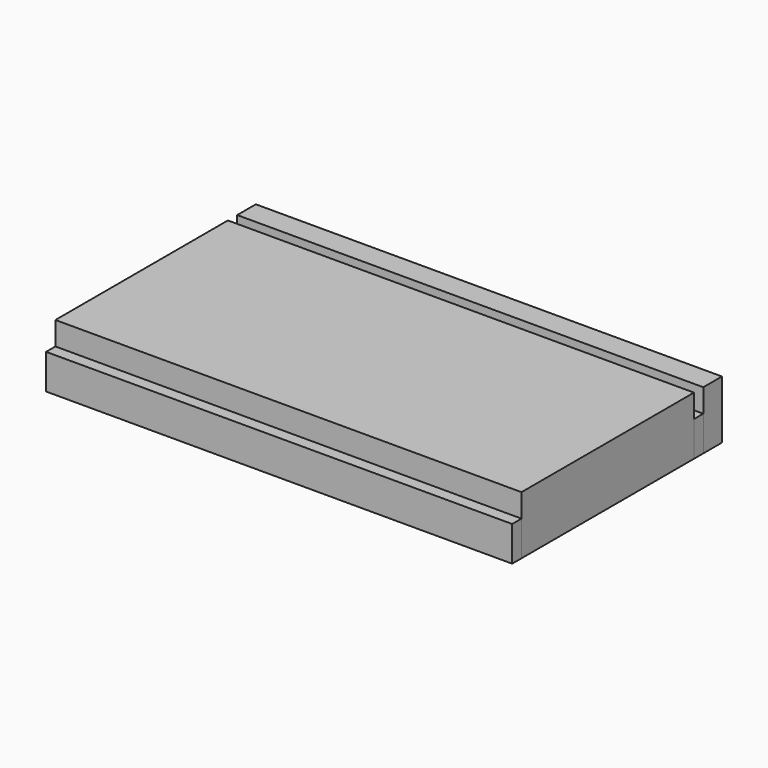
from build123d import *

# Parameters (mm, degrees)
F0_W     = 160
F0_H     = 8
F0_H_2   = 74
F1_DEPTH = 20
F0_H_3   = 4
F2_DEPTH = 12


with BuildPart() as f1:
    # F0 (on Top) → F1 (new body)
    with BuildSketch(Plane.XY):
        with Locations((1.274489, 55.319962)):
            Rectangle(F0_W, F0_H)
        with Locations((1.274489, 10.319962)):
            Rectangle(F0_W, F0_H_2)
    extrude(amount=F1_DEPTH)


with BuildPart() as f2:
    # F0 (on Top) → F2 (new body)
    with BuildSketch(Plane.XY):
        with Locations((1.274489, 49.319962)):
            Rectangle(F0_W, F0_H_3)
        with Locations((1.274489, -28.680038)):
            Rectangle(F0_W, F0_H_3)
    extrude(amount=F2_DEPTH)


solid = Compound([f1.part, f2.part])
